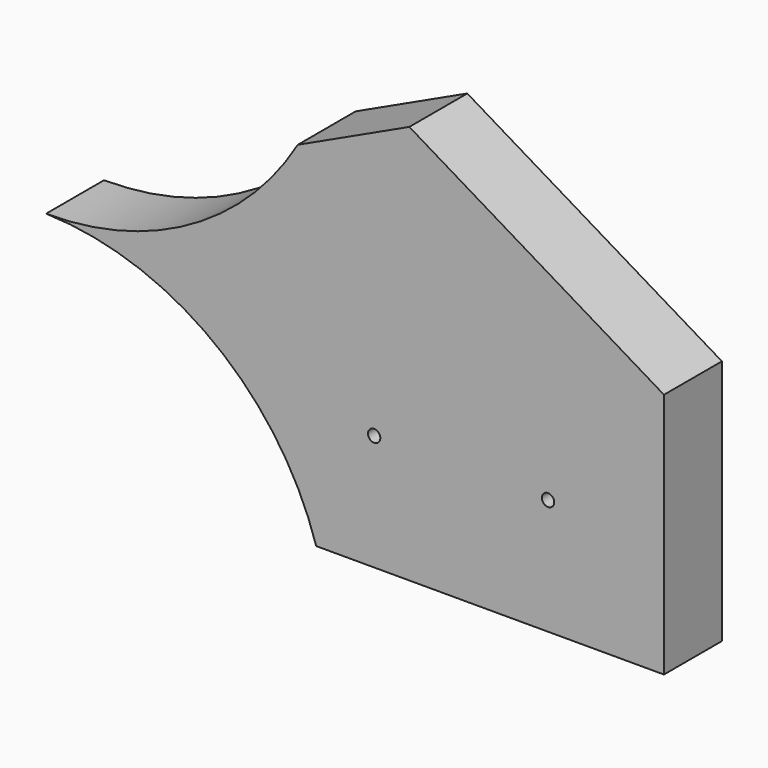
from build123d import *

# Parameters (mm, degrees)
F1_DEPTH = 31.75
F3_D     = 5.4102


with BuildPart() as f1:
    # F0 (on Front) → F1 (new body)
    with BuildSketch(Plane.XZ):
        with BuildLine():
            Line((159.1974866311, 85.2424), (110.2795238258, 62.4315793225))
            ThreePointArc((110.2795238258, 62.4315793225), (63.4585527357, 16.521426637), (0, 0))
            ThreePointArc((0, 0), (73.6360318528, -25.8222553056), (118.37924, -89.7526814014))
            Line((118.37924, -89.7526814014), (270.77924, -89.7526814014))
            Line((270.77924, -89.7526814014), (270.77924, 18.1973185986))
            Line((270.77924, 18.1973185986), (159.1974866311, 85.2424))
        make_face()
    extrude(amount=F1_DEPTH)

    # F3 (through all)
    with Locations(Plane.XZ.offset(31.75)):
        with Locations((143.77924, -38.9526814014), (219.97924, -38.9526814014)):
            Hole(F3_D / 2)


solid = f1.part
